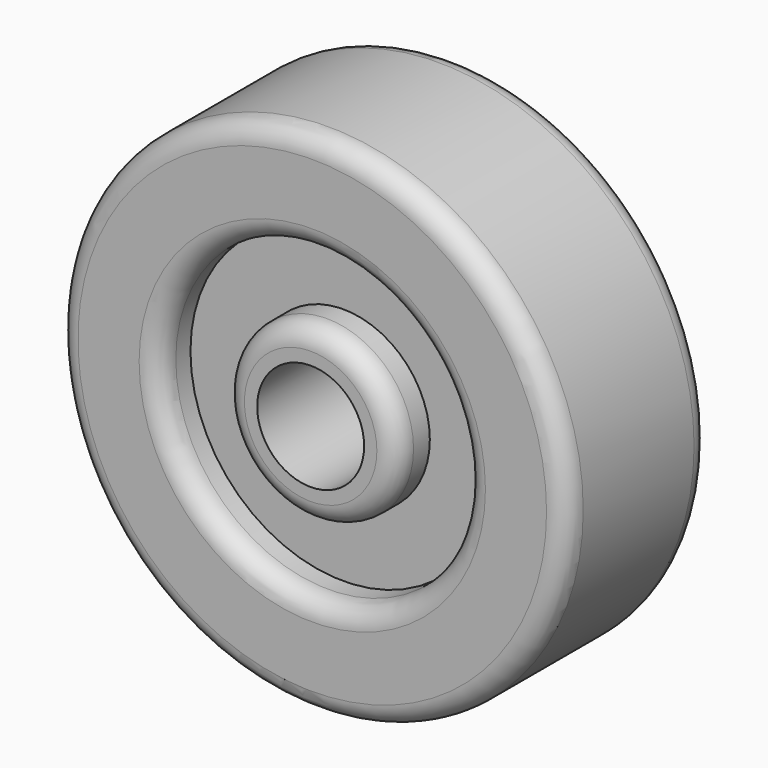
from build123d import *

# Parameters (mm, degrees)
F0_R     = 12.5
F0_R_2   = 7.5
F1_DEPTH = 4.4
F0_R_3   = 4.25
F0_R_4   = 2.625
F2_DEPTH = 4.5
F3_DEPTH = 2.5
F4_R     = 1
F4_2_R   = 1


with BuildPart() as f1:
    # F0 (on Front) → F1 (new body, symmetric)
    with BuildSketch(Plane.XZ):
        Circle(F0_R)
        Circle(F0_R_2, mode=Mode.SUBTRACT)
    extrude(amount=F1_DEPTH, both=True)

    # F4#2
    f4_2_edges = [f1.edges().sort_by_distance(p)[0] for p in [
        (-7.5, -4.4, 0),
        (-12.5, -4.4, 0),
        (-7.5, 4.4, 0),
        (-12.5, 4.4, 0),
    ]]
    fillet(f4_2_edges, radius=F4_2_R)


with BuildPart() as f2:
    # F0 (on Front) → F2 (new body, symmetric)
    with BuildSketch(Plane.XZ):
        Circle(F0_R_3)
        Circle(F0_R_4, mode=Mode.SUBTRACT)
    extrude(amount=F2_DEPTH, both=True)

    # F4
    f4_edges = [f2.edges().sort_by_distance(p)[0] for p in [
        (-4.25, -4.5, 0),
        (-4.25, 4.5, 0),
    ]]
    fillet(f4_edges, radius=F4_R)


with BuildPart() as f3:
    # F0 (on Front) → F3 (new body, symmetric)
    with BuildSketch(Plane.XZ):
        Circle(F0_R_2)
        Circle(F0_R_3, mode=Mode.SUBTRACT)
    extrude(amount=F3_DEPTH, both=True)


solid = Compound([f1.part, f2.part, f3.part])
